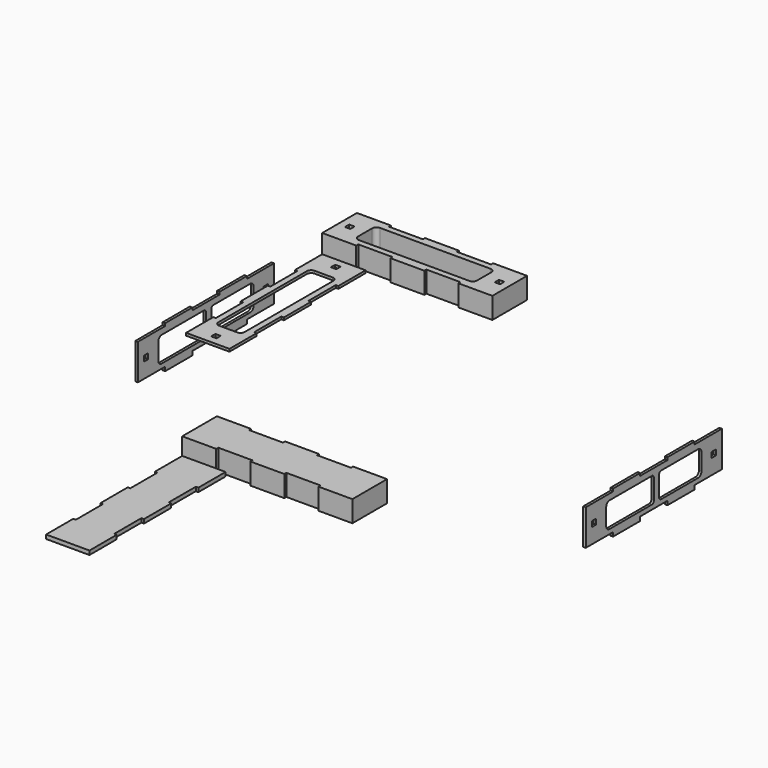
from build123d import *

# Parameters (mm, degrees)
F1_W      = 6.3
F1_H      = 6.3
F2_DEPTH  = 3
F4_W      = 6.3
F4_H      = 6.3
F5_DEPTH  = 3
F7_DEPTH  = 4.7
F8_ANGLE  = 90
F9_ANGLE  = 90
F10_ANGLE = 90
F12_DEPTH = 25
F13_DEPTH = 25


with BuildPart() as f2:
    # F1 (on offset) → F2 (new body)
    with BuildSketch(Plane.XY.offset(100)):
        Polygon((-97.1408965439, 13.0567993945), (-137.1408965439, 13.0567993945), (-137.1408965439, -37.9432006055), (-97.1408965439, -37.9432006055), (-97.1408965439, -34.9432006055), (-57.1408965439, -34.9432006055), (-57.1408965439, -37.9432006055), (-17.1408965439, -37.9432006055), (-17.1408965439, -34.9432006055), (22.8591034561, -34.9432006055), (22.8591034561, -37.9432006055), (62.8591034561, -37.9432006055), (62.8591034561, 13.0567993945), (22.8591034561, 13.0567993945), (22.8591034561, 10.0567993945), (-17.1408965439, 10.0567993945), (-17.1408965439, 13.0567993945), (-57.1408965439, 13.0567993945), (-57.1408965439, 10.0567993945), (-97.1408965439, 10.0567993945), align=None)
        with Locations((-125.1408965439, -12.4432006055)):
            Rectangle(F1_W, F1_H, mode=Mode.SUBTRACT)
        with BuildLine():
            Line((27.8591034561, -27.9432006055), (-102.1408965439, -27.9432006055))
            ThreePointArc((-102.1408965439, -27.9432006055), (-105.6764304498, -26.4787345115), (-107.1408965439, -22.9432006055))
            Line((-107.1408965439, -22.9432006055), (-107.1408965439, -1.9432006055))
            ThreePointArc((-107.1408965439, -1.9432006055), (-105.6764304498, 1.5923333004), (-102.1408965439, 3.0567993945))
            Line((-102.1408965439, 3.0567993945), (27.8591034561, 3.0567993945))
            ThreePointArc((27.8591034561, 3.0567993945), (31.3946373621, 1.5923333004), (32.8591034561, -1.9432006055))
            Line((32.8591034561, -1.9432006055), (32.8591034561, -22.9432006055))
            ThreePointArc((32.8591034561, -22.9432006055), (31.3946373621, -26.4787345115), (27.8591034561, -27.9432006055))
        make_face(mode=Mode.SUBTRACT)
        with Locations((50.8591034561, -12.4432006055)):
            Rectangle(F1_W, F1_H, mode=Mode.SUBTRACT)
    extrude(amount=F2_DEPTH)


with BuildPart() as f5:
    # F4 (on offset) → F5 (new body)
    with BuildSketch(Plane.XZ.offset(150)):
        Polygon((-261.7203052044, 18.6455773844), (-261.7203052044, -23.3544226156), (-221.7203052044, -23.3544226156), (-221.7203052044, -28.0544226156), (-181.7203052044, -28.0544226156), (-181.7203052044, -23.3544226156), (-141.7203052044, -23.3544226156), (-141.7203052044, -28.0544226156), (-101.7203052044, -28.0544226156), (-101.7203052044, -23.3544226156), (-61.7203052044, -23.3544226156), (-61.7203052044, 18.6455773844), (-101.7203052044, 18.6455773844), (-101.7203052044, 21.6455773844), (-141.7203052044, 21.6455773844), (-141.7203052044, 18.6455773844), (-181.7203052044, 18.6455773844), (-181.7203052044, 21.6455773844), (-221.7203052044, 21.6455773844), (-221.7203052044, 18.6455773844), align=None)
        with Locations((-249.7203052044, -2.3544226156)):
            Rectangle(F4_W, F4_H, mode=Mode.SUBTRACT)
        with BuildLine():
            ThreePointArc((-231.7203052044, 6.6455773844), (-230.2558391103, 10.1811112903), (-226.7203052044, 11.6455773844))
            Line((-226.7203052044, 11.6455773844), (-164.7203052044, 11.6455773844))
            ThreePointArc((-164.7203052044, 11.6455773844), (-162.5989848608, 10.766897728), (-161.7203052044, 8.6455773844))
            Line((-161.7203052044, 8.6455773844), (-161.7203052044, -15.0544226156))
            ThreePointArc((-161.7203052044, -15.0544226156), (-162.5989848608, -17.1757429592), (-164.7203052044, -18.0544226156))
            Line((-164.7203052044, -18.0544226156), (-226.7203052044, -18.0544226156))
            ThreePointArc((-226.7203052044, -18.0544226156), (-230.2558391103, -16.5899565215), (-231.7203052044, -13.0544226156))
            Line((-231.7203052044, -13.0544226156), (-231.7203052044, 6.6455773844))
        make_face(mode=Mode.SUBTRACT)
        with BuildLine():
            ThreePointArc((-153.9475117955, 8.6455773844), (-153.0688321391, 10.766897728), (-150.9475117955, 11.6455773844))
            Line((-150.9475117955, 11.6455773844), (-96.7203052044, 11.6455773844))
            ThreePointArc((-96.7203052044, 11.6455773844), (-93.1847712985, 10.1811112903), (-91.7203052044, 6.6455773844))
            Line((-91.7203052044, 6.6455773844), (-91.7203052044, -13.0544226156))
            ThreePointArc((-91.7203052044, -13.0544226156), (-93.1847712985, -16.5899565215), (-96.7203052044, -18.0544226156))
            Line((-96.7203052044, -18.0544226156), (-150.9475117955, -18.0544226156))
            ThreePointArc((-150.9475117955, -18.0544226156), (-153.0688321391, -17.1757429592), (-153.9475117955, -15.0544226156))
            Line((-153.9475117955, -15.0544226156), (-153.9475117955, 8.6455773844))
        make_face(mode=Mode.SUBTRACT)
        with Locations((-73.7203052044, -2.3544226156)):
            Rectangle(F4_W, F4_H, mode=Mode.SUBTRACT)
    extrude(amount=F5_DEPTH)


with BuildPart() as f7:
    # F6 (on Top) → F7 (new body)
    with BuildSketch(Plane.XY):
        Polygon((94.9668279202, -283.7654356956), (94.9668279202, -232.7654356956), (54.9668279202, -232.7654356956), (54.9668279202, -235.7654356956), (14.9668279202, -235.7654356956), (14.9668279202, -232.7654356956), (-25.0331720798, -232.7654356956), (-25.0331720798, -235.7654356956), (-65.0331720798, -235.7654356956), (-65.0331720798, -232.7654356956), (-105.0331720798, -232.7654356956), (-105.0331720798, -283.7654356956), (-65.0331720798, -283.7654356956), (-65.0331720798, -280.7654356956), (-25.0331720798, -280.7654356956), (-25.0331720798, -283.7654356956), (14.9668279202, -283.7654356956), (14.9668279202, -280.7654356956), (54.9668279202, -280.7654356956), (54.9668279202, -283.7654356956), align=None)
    extrude(amount=F7_DEPTH)


with BuildPart() as f2_1:
    # F8: moved
    add(f2.part.rotate(Axis((-137.1408965439, -37.9432006055, 101.5), (0, 0, -1)), F8_ANGLE))


with BuildPart() as f7_1:
    # F9: moved
    add(f7.part.rotate(Axis((-105.0331720798, -283.7654356956, 2.35), (0, 0, -1)), F9_ANGLE))


with BuildPart() as f5_1:
    # F10: moved
    add(f5.part.rotate(Axis((-261.7203052044, -153, -2.3544226156), (0, 0, 1)), F10_ANGLE))


with BuildPart() as f11_1:
    # F11: instance of F5
    add(f5_1.part.mirror(Plane.YZ))


with BuildPart() as f12:
    # F1 (on offset) → F12 (new body)
    with BuildSketch(Plane.XY.offset(100)):
        Polygon((-97.1408965439, 13.0567993945), (-137.1408965439, 13.0567993945), (-137.1408965439, -37.9432006055), (-97.1408965439, -37.9432006055), (-97.1408965439, -34.9432006055), (-57.1408965439, -34.9432006055), (-57.1408965439, -37.9432006055), (-17.1408965439, -37.9432006055), (-17.1408965439, -34.9432006055), (22.8591034561, -34.9432006055), (22.8591034561, -37.9432006055), (62.8591034561, -37.9432006055), (62.8591034561, 13.0567993945), (22.8591034561, 13.0567993945), (22.8591034561, 10.0567993945), (-17.1408965439, 10.0567993945), (-17.1408965439, 13.0567993945), (-57.1408965439, 13.0567993945), (-57.1408965439, 10.0567993945), (-97.1408965439, 10.0567993945), align=None)
        with Locations((-125.1408965439, -12.4432006055)):
            Rectangle(F1_W, F1_H, mode=Mode.SUBTRACT)
        with BuildLine():
            Line((27.8591034561, -27.9432006055), (-102.1408965439, -27.9432006055))
            ThreePointArc((-102.1408965439, -27.9432006055), (-105.6764304498, -26.4787345115), (-107.1408965439, -22.9432006055))
            Line((-107.1408965439, -22.9432006055), (-107.1408965439, -1.9432006055))
            ThreePointArc((-107.1408965439, -1.9432006055), (-105.6764304498, 1.5923333004), (-102.1408965439, 3.0567993945))
            Line((-102.1408965439, 3.0567993945), (27.8591034561, 3.0567993945))
            ThreePointArc((27.8591034561, 3.0567993945), (31.3946373621, 1.5923333004), (32.8591034561, -1.9432006055))
            Line((32.8591034561, -1.9432006055), (32.8591034561, -22.9432006055))
            ThreePointArc((32.8591034561, -22.9432006055), (31.3946373621, -26.4787345115), (27.8591034561, -27.9432006055))
        make_face(mode=Mode.SUBTRACT)
        with Locations((50.8591034561, -12.4432006055)):
            Rectangle(F1_W, F1_H, mode=Mode.SUBTRACT)
    extrude(amount=F12_DEPTH)


with BuildPart() as f13:
    # F6 (on Top) → F13 (new body)
    with BuildSketch(Plane.XY):
        Polygon((94.9668279202, -283.7654356956), (94.9668279202, -232.7654356956), (54.9668279202, -232.7654356956), (54.9668279202, -235.7654356956), (14.9668279202, -235.7654356956), (14.9668279202, -232.7654356956), (-25.0331720798, -232.7654356956), (-25.0331720798, -235.7654356956), (-65.0331720798, -235.7654356956), (-65.0331720798, -232.7654356956), (-105.0331720798, -232.7654356956), (-105.0331720798, -283.7654356956), (-65.0331720798, -283.7654356956), (-65.0331720798, -280.7654356956), (-25.0331720798, -280.7654356956), (-25.0331720798, -283.7654356956), (14.9668279202, -283.7654356956), (14.9668279202, -280.7654356956), (54.9668279202, -280.7654356956), (54.9668279202, -283.7654356956), align=None)
    extrude(amount=F13_DEPTH)


solid = Compound([f2_1.part, f7_1.part, f5_1.part, f11_1.part, f12.part, f13.part])
